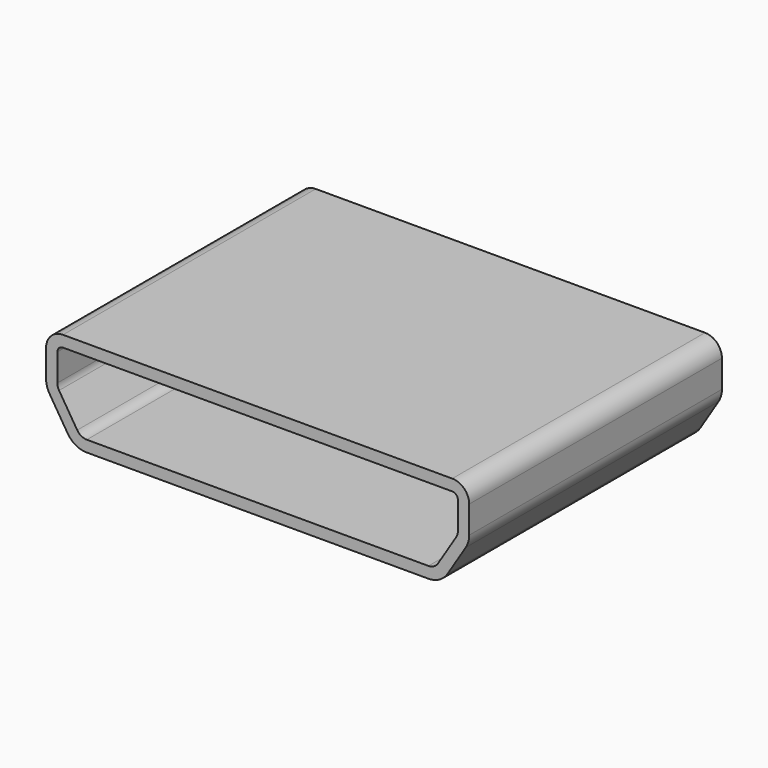
from build123d import *

# Parameters (mm, degrees)
PAD005_DEPTH      = 0.6
PAD005_DEPTH_BACK = 5
FILLET004_R       = 0.4
THICKNESS_T       = -0.2


with BuildPart() as part:
    # Sketch007 (on Face1 of ReferenceLinearPattern004001) → Pad005 (new body, two sides)
    with BuildSketch(Plane.XZ) as pad005_sk:
        with BuildLine():
            Line((44.9, 2.7), (38, 2.7))
            ThreePointArc((38, 2.7), (37.787868, 2.612132), (37.7, 2.4))
            Line((37.7, 1.8), (37.7, 2.4))
            Line((38.2, 1), (37.7, 1.8))
            Line((38.2, 1), (44.7, 1))
            Line((44.7, 1), (45.2, 1.8))
            Line((45.2, 1.8), (45.2, 2.4))
            ThreePointArc((45.2, 2.4), (45.112132, 2.612132), (44.9, 2.7))
        make_face()
    extrude(amount=PAD005_DEPTH)
    extrude(pad005_sk.sketch, amount=-PAD005_DEPTH_BACK)

    # Fillet004
    fillet004_edges = [part.edges().sort_by_distance(p)[0] for p in [
        (37.7, 2.2, 1.8),
        (38.2, 2.2, 1),
        (45.2, 2.2, 1.8),
        (44.7, 2.2, 1),
    ]]
    fillet(fillet004_edges, radius=FILLET004_R)

    # Thickness
    thickness_openings = [part.faces().sort_by_distance(p)[0] for p in [
        (41.45, -0.6, 1.867545),
    ]]
    offset(amount=THICKNESS_T, openings=thickness_openings)


solid = part.part
